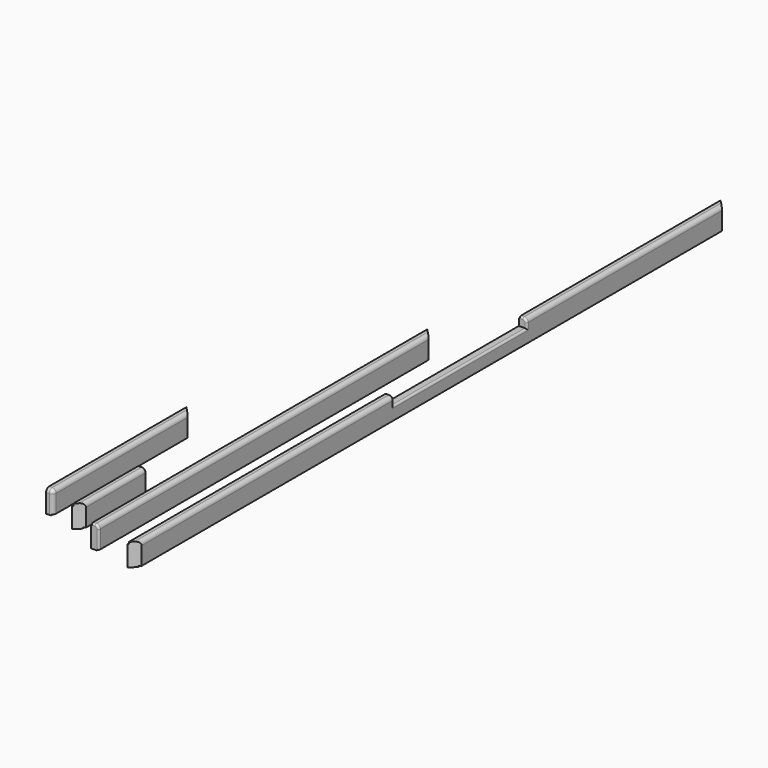
from build123d import *

# Parameters (mm, degrees)
F1_DEPTH  = 635.4
F2_R      = 14
F3_W      = 11.7114912719
F3_H      = 15.8868902363
F4_DEPTH  = 81.501
F6_DEPTH  = 301.5
F8_DEPTH  = 81.501
F9_R      = 7
F11_DEPTH = 1516.12
F13_DEPTH = 81.501
F14_R     = 7
F16_DEPTH = 2675
F18_DEPTH = 81.501
F19_W     = 600
F19_H     = 102.8366100552
F20_DEPTH = 325.014245344
F21_R     = 7


with BuildPart() as f1:
    # F0 (on Front) → F1 (new body)
    with BuildSketch(Plane.XZ):
        with BuildLine():
            Line((0, 74), (0, 0))
            Line((0, 0), (21, 0))
            Line((21, 0), (21, 3))
            Line((21, 3), (28.5, 3))
            Line((28.5, 3), (28.5, 67.5))
            ThreePointArc((28.5, 67.5), (24.3994949366, 77.3994949366), (14.5, 81.5))
            Line((14.5, 81.5), (3, 81.5))
            Line((3, 81.5), (3, 74))
            Line((3, 74), (0, 74))
        make_face()
    extrude(amount=-F1_DEPTH)

    # F2
    f2_edges = [f1.edges().sort_by_distance(p)[0] for p in [
        (8.75, 0, 81.5),
    ]]
    fillet(f2_edges, radius=F2_R)

    # F3 (on face) → F4 (cut, through all)
    with BuildSketch(Plane.XY.offset(81.5)):
        Polygon((32.8396826832, 635.8946625846), (0, 635.4), (32.8396826832, 602.5603173168), align=None)
        with Locations((-2.8557456359, -0.4434451181)):
            Rectangle(F3_W, F3_H)
    extrude(amount=-F4_DEPTH, mode=Mode.SUBTRACT)


with BuildPart() as f6:
    # F5 (on Front) → F6 (new body)
    with BuildSketch(Plane.XZ):
        with BuildLine():
            Line((95.7850002645, 54.8502280084), (95.7850002645, -19.1497719916))
            Line((95.7850002645, -19.1497719916), (116.7850002645, -19.1497719916))
            Line((116.7850002645, -19.1497719916), (116.7850002645, -16.1497719916))
            Line((116.7850002645, -16.1497719916), (124.2850002645, -16.1497719916))
            Line((124.2850002645, -16.1497719916), (124.2850002645, 48.3502280084))
            ThreePointArc((124.2850002645, 48.3502280084), (120.1844952011, 58.249722945), (110.2850002645, 62.3502280084))
            Line((110.2850002645, 62.3502280084), (98.7850002645, 62.3502280084))
            Line((98.7850002645, 62.3502280084), (98.7850002645, 54.8502280084))
            Line((98.7850002645, 54.8502280084), (95.7850002645, 54.8502280084))
        make_face()
    extrude(amount=-F6_DEPTH)

    # F7 (on face) → F8 (cut, through all)
    with BuildSketch(Plane.XY.offset(62.3502280084)):
        Polygon((128.0828008649, 32.2921613452), (95.7906395197, 0), (128.0828008649, -11.502165139), align=None)
    extrude(amount=-F8_DEPTH, mode=Mode.SUBTRACT)

    # F9
    f9_edges = [f6.edges().sort_by_distance(p)[0] for p in [
        (124.285, 301.5, 16.100228),
    ]]
    fillet(f9_edges, radius=F9_R)


with BuildPart() as f11:
    # F10 (on Front) → F11 (new body)
    with BuildSketch(Plane.XZ):
        with BuildLine():
            Line((164.928750038, 16.7700600518), (164.928750038, -57.2299399482))
            Line((164.928750038, -57.2299399482), (185.928750038, -57.2299399482))
            Line((185.928750038, -57.2299399482), (185.928750038, -54.2299399482))
            Line((185.928750038, -54.2299399482), (193.428750038, -54.2299399482))
            Line((193.428750038, -54.2299399482), (193.428750038, 10.2700600518))
            ThreePointArc((193.428750038, 10.2700600518), (189.3282449746, 20.1695549884), (179.428750038, 24.2700600518))
            Line((179.428750038, 24.2700600518), (167.928750038, 24.2700600518))
            Line((167.928750038, 24.2700600518), (167.928750038, 16.7700600518))
            Line((167.928750038, 16.7700600518), (164.928750038, 16.7700600518))
        make_face()
    extrude(amount=-F11_DEPTH)

    # F12 (on face) → F13 (cut, through all)
    with BuildSketch(Plane.XY.offset(24.2700600518)):
        Polygon((222.393949924, 1522.9550638974), (164.928750038, 1516.12), (222.393949924, 1458.6548001139), align=None)
    extrude(amount=-F13_DEPTH, mode=Mode.SUBTRACT)

    # F14
    f14_edges = [f11.edges().sort_by_distance(p)[0] for p in [
        (173.67875, 0, 24.27006),
    ]]
    fillet(f14_edges, radius=F14_R)


with BuildPart() as f16:
    # F15 (on Front) → F16 (new body)
    with BuildSketch(Plane.XZ):
        with BuildLine():
            Line((296.513245344, -1.6950537743), (296.513245344, -75.6950537743))
            Line((296.513245344, -75.6950537743), (317.513245344, -75.6950537743))
            Line((317.513245344, -75.6950537743), (317.513245344, -72.6950537743))
            Line((317.513245344, -72.6950537743), (325.013245344, -72.6950537743))
            Line((325.013245344, -72.6950537743), (325.013245344, -8.1950537743))
            ThreePointArc((325.013245344, -8.1950537743), (320.9127402806, 1.7044411623), (311.013245344, 5.8049462257))
            Line((311.013245344, 5.8049462257), (299.513245344, 5.8049462257))
            Line((299.513245344, 5.8049462257), (299.513245344, -1.6950537743))
            Line((299.513245344, -1.6950537743), (296.513245344, -1.6950537743))
        make_face()
    extrude(amount=-F16_DEPTH)

    # F17 (on face) → F18 (cut, through all)
    with BuildSketch(Plane.XY.offset(5.8049462257)):
        Polygon((325.3486404543, 28.8353951103), (296.513245344, 0), (328.7430405617, -5.8557791635), align=None)
        Polygon((329.7191858292, 2681.4970970154), (296.513245344, 2675), (329.9051460379, 2641.6080993061), align=None)
    extrude(amount=-F18_DEPTH, mode=Mode.SUBTRACT)

    # F19 (on face) → F20 (cut, through all)
    with BuildSketch(Plane.YZ.offset(325.013245344)):
        with Locations((1466, 25.7232512533)):
            Rectangle(F19_W, F19_H)
    extrude(amount=-F20_DEPTH, mode=Mode.SUBTRACT)

    # F21
    f21_edges = [f16.edges().sort_by_distance(p)[0] for p in [
        (305.263245, 1166, 5.804946),
        (325.013245, 1466, -25.695054),
        (305.263245, 1766, 5.804946),
    ]]
    fillet(f21_edges, radius=F21_R)


solid = Compound([f1.part, f6.part, f11.part, f16.part])
